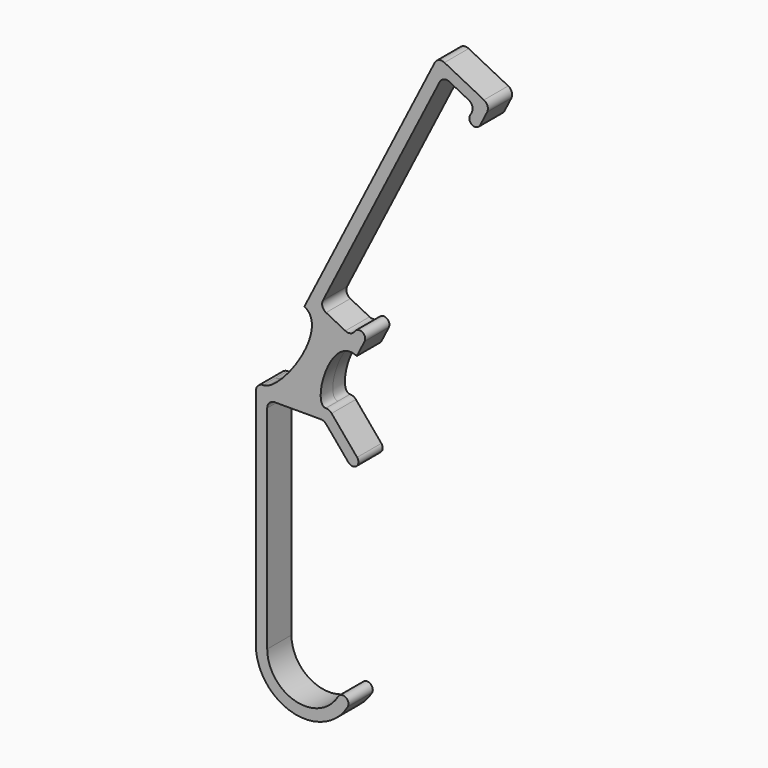
from build123d import *

# Parameters (mm, degrees)
F1_DEPTH = 4


with BuildPart() as f1:
    # F0 (on Front) → F1 (new body, symmetric)
    with BuildSketch(Plane.XZ):
        with BuildLine():
            Line((0, -58), (0, -2))
            ThreePointArc((0, -2), (0.585786, -0.585786), (2, 0))
            Line((2, 0), (14.067385, 0))
            ThreePointArc((14.067385, 0), (14.912621, -0.187384), (15.599474, -0.714425))
            Line((15.599474, -0.714425), (21.427876, -7.660444))
            ThreePointArc((21.427876, -7.660444), (23.541124, -7.84533), (23.726009, -5.732082))
            Line((23.726009, -5.732082), (16.998397, 2.285575))
            ThreePointArc((16.998397, 2.285575), (16.311544, 2.812616), (15.466308, 3))
            Line((15.466308, 3), (-1, 3))
            ThreePointArc((-1, 3), (-2.414214, 2.414214), (-3, 1))
            Line((-3, 1), (-3, -58))
            ThreePointArc((-3, -58), (6.635352, -70.557036), (21.25833, -64.5))
            ThreePointArc((21.25833, -64.5), (20.709292, -62.450962), (18.660254, -63))
            ThreePointArc((18.660254, -63), (7.41181, -67.659258), (0, -58))
        make_face()
        with BuildLine():
            add(Edge.make_bspline(
                [(9.801105, 24.770399), (16.713515, 21.265962), (3.801123, 3), (-1, 3)],
                knots=[0, 0, 0, 0, 24.302554, 24.302554, 24.302554, 24.302554], degree=3))
            Line((-1, 3), (15.466308, 3))
            add(Edge.make_bspline(
                [(23.625926, 17.761524), (16.713515, 21.265962), (11.532911, 3), (15.466308, 3)],
                knots=[0, 0, 0, 0, 16.866593, 16.866593, 16.866593, 16.866593], degree=3))
            Line((23.625926, 17.761524), (9.801105, 24.770399))
        make_face()
        with BuildLine():
            Line((44.212419, 92.64581), (9.801105, 24.770399))
            Line((9.801105, 24.770399), (23.625926, 17.761524))
            Line((23.625926, 17.761524), (25.686698, 21.826344))
            ThreePointArc((25.686698, 21.826344), (25.092934, 23.809127), (23.082733, 23.316097))
            ThreePointArc((23.082733, 23.316097), (21.982211, 22.508258), (20.624076, 22.64691))
            Line((20.624076, 22.64691), (15.528089, 25.230462))
            ThreePointArc((15.528089, 25.230462), (14.581426, 26.334328), (14.692586, 27.78427))
            Line((14.692586, 27.78427), (45.531634, 88.613482))
            ThreePointArc((45.531634, 88.613482), (46.6355, 89.560145), (48.085442, 89.448985))
            Line((48.085442, 89.448985), (53.169409, 86.871528))
            ThreePointArc((53.169409, 86.871528), (54.116071, 85.767662), (54.004912, 84.31772))
            Line((54.004912, 84.31772), (53.507508, 83.336604))
            ThreePointArc((53.507508, 83.336604), (54.167115, 81.32044), (56.18328, 81.980047))
            Line((56.18328, 81.980047), (58.03724, 85.636936))
            ThreePointArc((58.03724, 85.636936), (58.148399, 87.086878), (57.201737, 88.190743))
            Line((57.201737, 88.190743), (46.766227, 93.481313))
            ThreePointArc((46.766227, 93.481313), (45.316285, 93.592473), (44.212419, 92.64581))
        make_face()
    extrude(amount=F1_DEPTH, both=True)


solid = f1.part
